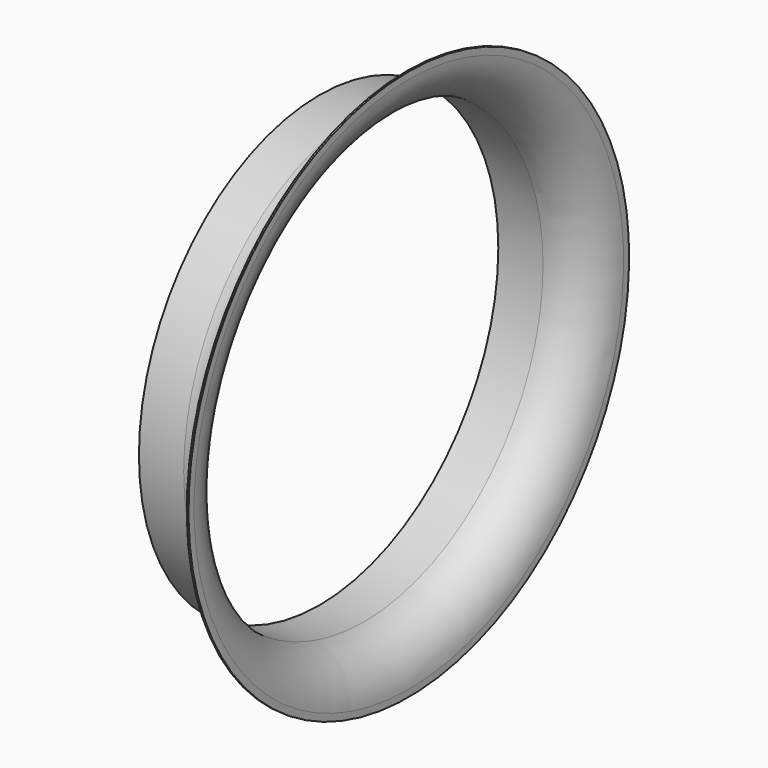
from build123d import *


with BuildPart() as f1:
    # F0 (on Front) → F1 (revolve)
    with BuildSketch(Plane.XZ):
        with BuildLine():
            Line((0, 466.535), (0, 478.535))
            Line((0, 478.535), (-3, 478.535))
            Line((-3, 478.535), (-3, 466.535))
            ThreePointArc((-3, 466.535), (-24.896697, 413.671697), (-77.76, 391.775))
            Line((-77.76, 391.775), (-155.52, 391.775))
            Line((-155.52, 391.775), (-155.52, 388.775))
            Line((-155.52, 388.775), (-77.76, 388.775))
            ThreePointArc((-77.76, 388.775), (-22.775377, 411.550377), (0, 466.535))
        make_face()
    revolve(axis=Axis((-41.230138, 0, 0), (-1, 0, 0)))


solid = f1.part
